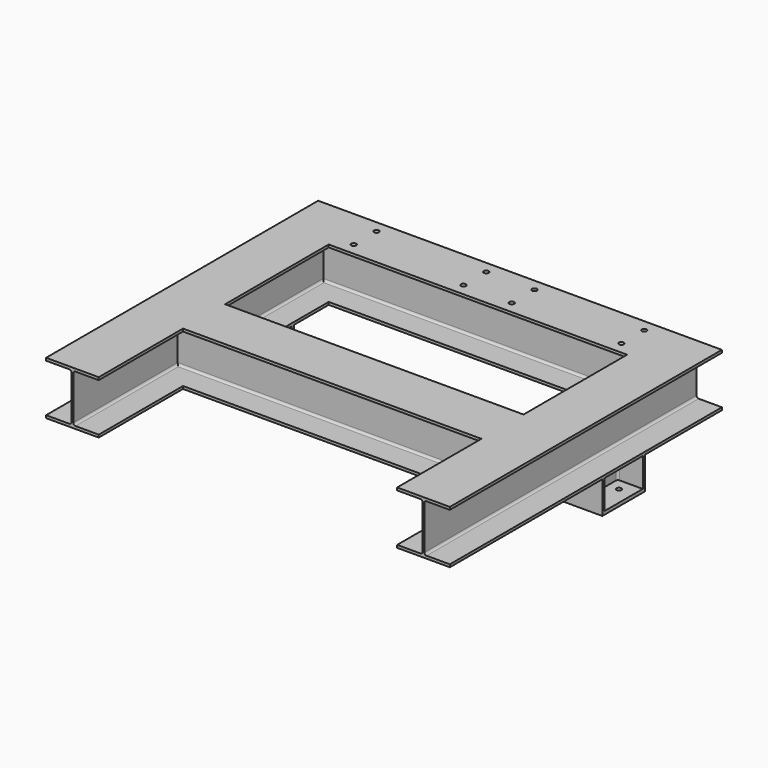
from build123d import *

# Parameters (mm, degrees)
F1_DEPTH  = 984.25
F3_DEPTH  = 1011.047
F5_DEPTH  = 168.148
F6_W      = 304.8
F6_H      = 307.848
F7_DEPTH  = 19.05
F9_D      = 28.575
F9_DEPTH  = 76.2
F11_D     = 28.575
F11_DEPTH = 76.2


with BuildPart() as f1:
    # F0 (on Front) → F1 (new body, symmetric)
    with BuildSketch(Plane.XZ):
        with BuildLine():
            Line((-1168.4, -138.684), (-1168.4, -153.924))
            Line((-1168.4, -153.924), (-863.6, -153.924))
            Line((-863.6, -153.924), (-863.6, -138.684))
            Line((-863.6, -138.684), (-998.347, -138.684))
            ThreePointArc((-998.347, -138.684), (-1007.327256, -134.964256), (-1011.047, -125.984))
            Line((-1011.047, -125.984), (-1011.047, 125.984))
            ThreePointArc((-1011.047, 125.984), (-1007.327256, 134.964256), (-998.347, 138.684))
            Line((-998.347, 138.684), (-863.6, 138.684))
            Line((-863.6, 138.684), (-863.6, 153.924))
            Line((-863.6, 153.924), (-1168.4, 153.924))
            Line((-1168.4, 153.924), (-1168.4, 138.684))
            Line((-1168.4, 138.684), (-1033.653, 138.684))
            ThreePointArc((-1033.653, 138.684), (-1024.672744, 134.964256), (-1020.953, 125.984))
            Line((-1020.953, 125.984), (-1020.953, -125.984))
            ThreePointArc((-1020.953, -125.984), (-1024.672744, -134.964256), (-1033.653, -138.684))
            Line((-1033.653, -138.684), (-1168.4, -138.684))
        make_face()
    extrude(amount=F1_DEPTH, both=True)

    # F2 (on Right) → F3 (join, through all)
    with BuildSketch(Plane.YZ):
        with BuildLine():
            Line((984.25, 138.684), (984.25, 153.924))
            Line((984.25, 153.924), (679.45, 153.924))
            Line((679.45, 153.924), (679.45, 138.684))
            Line((679.45, 138.684), (812.8, 138.684))
            ThreePointArc((812.8, 138.684), (821.780256, 134.964256), (825.5, 125.984))
            Line((825.5, 125.984), (825.5, -125.984))
            ThreePointArc((825.5, -125.984), (821.780256, -134.964256), (812.8, -138.684))
            Line((812.8, -138.684), (679.45, -138.684))
            Line((679.45, -138.684), (679.45, -153.924))
            Line((679.45, -153.924), (984.25, -153.924))
            Line((984.25, -153.924), (984.25, -138.684))
            Line((984.25, -138.684), (850.9, -138.684))
            ThreePointArc((850.9, -138.684), (841.919744, -134.964256), (838.2, -125.984))
            Line((838.2, -125.984), (838.2, 125.984))
            ThreePointArc((838.2, 125.984), (841.919744, 134.964256), (850.9, 138.684))
            Line((850.9, 138.684), (984.25, 138.684))
        make_face()
        with BuildLine():
            Line((-69.85, 153.924), (-374.65, 153.924))
            Line((-374.65, 153.924), (-374.65, 138.684))
            Line((-374.65, 138.684), (-241.3, 138.684))
            ThreePointArc((-241.3, 138.684), (-232.319744, 134.964256), (-228.6, 125.984))
            Line((-228.6, 125.984), (-228.6, -125.984))
            ThreePointArc((-228.6, -125.984), (-232.319744, -134.964256), (-241.3, -138.684))
            Line((-241.3, -138.684), (-374.65, -138.684))
            Line((-374.65, -138.684), (-374.65, -153.924))
            Line((-374.65, -153.924), (-69.85, -153.924))
            Line((-69.85, -153.924), (-69.85, -138.684))
            Line((-69.85, -138.684), (-203.2, -138.684))
            ThreePointArc((-203.2, -138.684), (-212.180256, -134.964256), (-215.9, -125.984))
            Line((-215.9, -125.984), (-215.9, 125.984))
            ThreePointArc((-215.9, 125.984), (-212.180256, 134.964256), (-203.2, 138.684))
            Line((-203.2, 138.684), (-69.85, 138.684))
            Line((-69.85, 138.684), (-69.85, 153.924))
        make_face()
    extrude(amount=-F3_DEPTH)

    # F4 (on face) → F5 (join)
    with BuildSketch(Plane(origin=(0, 0, -153.924), x_dir=(1, 0, 0), z_dir=(0, 0, -1))):
        with BuildLine():
            Line((-863.6, -134.366), (-863.6, -119.126))
            Line((-863.6, -119.126), (-1168.4, -119.126))
            Line((-1168.4, -119.126), (-1168.4, -134.366))
            Line((-1168.4, -134.366), (-1035.05, -134.366))
            ThreePointArc((-1035.05, -134.366), (-1026.069744, -138.085744), (-1022.35, -147.066))
            Line((-1022.35, -147.066), (-1022.35, -399.034))
            ThreePointArc((-1022.35, -399.034), (-1026.069744, -408.014256), (-1035.05, -411.734))
            Line((-1035.05, -411.734), (-1168.4, -411.734))
            Line((-1168.4, -411.734), (-1168.4, -426.974))
            Line((-1168.4, -426.974), (-863.6, -426.974))
            Line((-863.6, -426.974), (-863.6, -411.734))
            Line((-863.6, -411.734), (-996.95, -411.734))
            ThreePointArc((-996.95, -411.734), (-1005.930256, -408.014256), (-1009.65, -399.034))
            Line((-1009.65, -399.034), (-1009.65, -147.066))
            ThreePointArc((-1009.65, -147.066), (-1005.930256, -138.085744), (-996.95, -134.366))
            Line((-996.95, -134.366), (-863.6, -134.366))
        make_face()
    extrude(amount=F5_DEPTH)

    # F6 (on face) → F7 (join)
    with BuildSketch(Plane(origin=(0, 0, -322.072), x_dir=(1, 0, 0), z_dir=(0, 0, -1))):
        with Locations((-1016, -273.05)):
            Rectangle(F6_W, F6_H)
    extrude(amount=F7_DEPTH)

    # F9
    with Locations(Plane(origin=(0, 0, -341.122), x_dir=(1, 0, 0), z_dir=(0, 0, -1))):
        with Locations((-946.15, -203.2), (-946.15, -342.9), (-1085.85, -342.9), (-1085.85, -203.2)):
            Hole(F9_D / 2, depth=F9_DEPTH)

    # F11
    with Locations(Plane.XY.offset(153.924)):
        with Locations((-774.7, 914.4), (-774.7, 749.3), (-139.7, 914.4), (-139.7, 749.3)):
            Hole(F11_D / 2, depth=F11_DEPTH)

    # F12: F1 across plane


with BuildPart() as f1_1:
    add(f1.part)
    add(f1.part.mirror(Plane.YZ))


solid = f1_1.part
